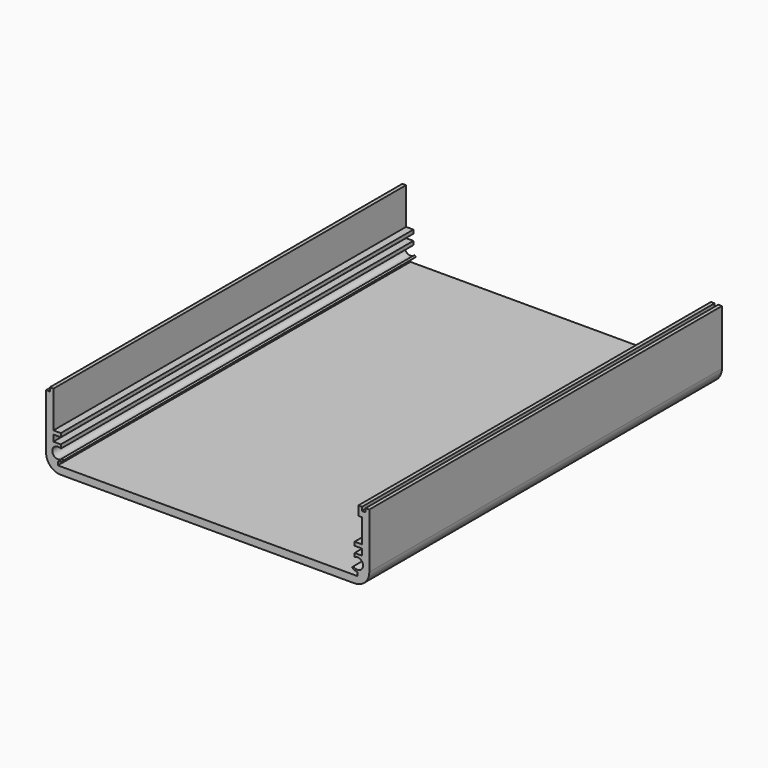
from build123d import *

# Parameters (mm, degrees)
F1_DEPTH = 120


with BuildPart() as f1:
    # F0 (on Front) → F1 (new body)
    with BuildSketch(Plane.XZ):
        with BuildLine():
            ThreePointArc((-44, 4), (-42.828427, 1.171573), (-40, 0))
            Line((-40, 0), (40, 0))
            ThreePointArc((40, 0), (42.828427, 1.171573), (44, 4))
            Line((44, 4), (44, 19))
            Line((44, 19), (43, 19))
            Line((43, 19), (43, 18))
            Line((43, 18), (42, 18))
            Line((42, 18), (42, 19))
            Line((42, 19), (41, 19))
            Line((41, 19), (41, 16.5))
            Line((41, 16.5), (42, 16.5))
            Line((42, 16.5), (42, 10))
            Line((42, 10), (40, 10))
            Line((40, 10), (40, 9))
            Line((40, 9), (42, 9))
            Line((42, 9), (42, 7.3))
            Line((42, 7.3), (40, 7.3))
            Line((40, 7.3), (40, 6.268858))
            ThreePointArc((40, 6.268858), (42.285461, 4.791662), (39.681814, 4.00017))
            Line((39.681814, 4.00017), (39.327847, 3.646203))
            ThreePointArc((39.327847, 3.646203), (39.996132, 3.168663), (40.8, 3))
            Line((40.8, 3), (40.8, 2))
            Line((40.8, 2), (-40.8, 2))
            Line((-40.8, 2), (-40.8, 3))
            ThreePointArc((-40.8, 3), (-39.996132, 3.168663), (-39.327847, 3.646203))
            Line((-39.327847, 3.646203), (-39.681814, 4.00017))
            ThreePointArc((-39.681814, 4.00017), (-42.285461, 4.791662), (-40, 6.268858))
            Line((-40, 6.268858), (-40, 7.3))
            Line((-40, 7.3), (-42, 7.3))
            Line((-42, 7.3), (-42, 9))
            Line((-42, 9), (-40, 9))
            Line((-40, 9), (-40, 10))
            Line((-40, 10), (-42, 10))
            Line((-42, 10), (-42, 20))
            Line((-42, 20), (-43, 20))
            Line((-43, 20), (-43, 19))
            Line((-43, 19), (-44, 19))
            Line((-44, 19), (-44, 4))
        make_face()
    extrude(amount=F1_DEPTH)


solid = f1.part
